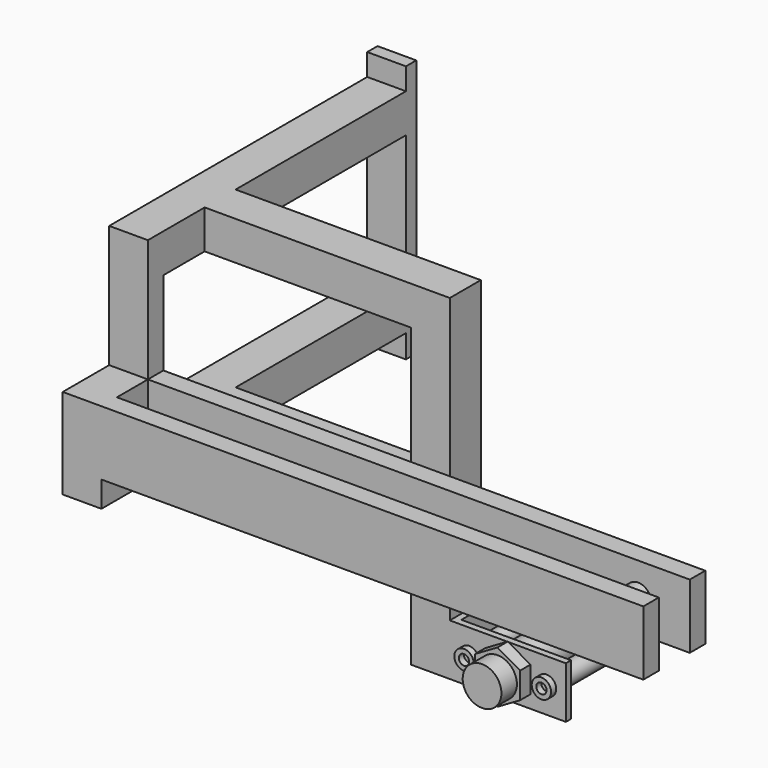
from build123d import *

# Parameters (mm, degrees)
F0_W      = 90
F0_H      = 40
F0_R      = 4
F1_DEPTH  = 5
F3_DEPTH  = 10
F4_R      = 15
F5_DEPTH  = 60
F6_R      = 7.5
F6_R_2    = 4
F7_DEPTH  = 80
F8_W      = 90
F8_H      = 40
F9_DEPTH  = 5
F11_DEPTH = 10
F12_R     = 15
F13_DEPTH = 15
F14_W     = 5
F14_H     = 40
F15_DEPTH = 70
F16_R     = 4
F17_DEPTH = 50
F18_W     = 30
F18_H     = 260
F19_DEPTH = 30
F20_W     = 30
F20_H     = 30
F21_DEPTH = 190
F22_W     = 30
F22_H     = 30
F23_DEPTH = 205
F24_DEPTH = 40
F25_W     = 30
F25_H     = 200
F26_DEPTH = 10
F27_W     = 30
F27_H     = 165
F28_DEPTH = 60
F29_W     = 15
F29_H     = 50
F30_DEPTH = 420
F31_W     = 45
F31_H     = 121.339908
F32_DEPTH = 40
F33_R     = 10
F34_DEPTH = 60


with BuildPart() as f1:
    # F0 (on Front) → F1 (new body)
    with BuildSketch(Plane.XZ):
        Rectangle(F0_W, F0_H)
        with Locations((-30, 0)):
            Circle(F0_R, mode=Mode.SUBTRACT)
        Circle(F0_R, mode=Mode.SUBTRACT)
        with Locations((30, 0)):
            Circle(F0_R, mode=Mode.SUBTRACT)
    extrude(amount=F1_DEPTH)

    # F2 (on face) → F3 (join)
    with BuildSketch(Plane.XZ.offset(5)):
        Polygon((17.5, -10.10363), (17.5, 10.10363), (0, 20.207259), (-17.5, 10.10363), (-17.5, -10.10363), (0, -20.207259), align=None)
    extrude(amount=F3_DEPTH)

    # F4 (on face) → F5 (join)
    with BuildSketch(Plane.XZ.offset(15)):
        Circle(F4_R)
    extrude(amount=F5_DEPTH)

    # F6 (on face) → F7 (join)
    with BuildSketch(Plane.XZ.offset(5)):
        with Locations((30, 0)):
            Circle(F6_R)
        with Locations((30, 0)):
            Circle(F6_R_2, mode=Mode.SUBTRACT)
        with Locations((-30, 0)):
            Circle(F6_R)
        with Locations((-30, 0)):
            Circle(F6_R_2, mode=Mode.SUBTRACT)
    extrude(amount=F7_DEPTH)

    # F8 (on face) → F9 (join)
    with BuildSketch(Plane.XZ.offset(75)):
        Rectangle(F8_W, F8_H)
    extrude(amount=F9_DEPTH)

    # F10 (on face) → F11 (join)
    with BuildSketch(Plane.XZ.offset(80)):
        Polygon((0.040823, -20.207218), (17.520376, -10.068255), (17.479553, 10.138963), (-0.040823, 20.207218), (-17.520376, 10.068255), (-17.479553, -10.138963), align=None)
    extrude(amount=F11_DEPTH)

    # F12 (on face) → F13 (join)
    with BuildSketch(Plane.XZ.offset(90)):
        Circle(F12_R)
    extrude(amount=F13_DEPTH)

    # F14 (on face) → F15 (join, through all)
    with BuildSketch(Plane.XZ.offset(5)):
        with Locations((-42.5, 0)):
            Rectangle(F14_W, F14_H)
    extrude(amount=F15_DEPTH)

    # F16 (on face) → F17 (cut)
    with BuildSketch(Plane(origin=(0, 0, 0), x_dir=(-1, 0, 0), z_dir=(0, 1, 0))):
        Circle(F16_R)
    extrude(amount=-F17_DEPTH, mode=Mode.SUBTRACT)

    # F18 (on face) → F19 (join)
    with BuildSketch(Plane(origin=(-45, 0, 0), x_dir=(0, -1, 0), z_dir=(-1, 0, 0))):
        with Locations((65, 110)):
            Rectangle(F18_W, F18_H)
    extrude(amount=F19_DEPTH)

    # F20 (on face) → F21 (join)
    with BuildSketch(Plane(origin=(-75, 0, 0), x_dir=(0, -1, 0), z_dir=(-1, 0, 0))):
        with Locations((65, 90)):
            Rectangle(F20_W, F20_H)
        with Locations((65, 225)):
            Rectangle(F20_W, F20_H)
    extrude(amount=F21_DEPTH)

    # F22 (on face) → F23 (join)
    with BuildSketch(Plane.XZ.offset(80)):
        with Locations((-250, 90)):
            Rectangle(F22_W, F22_H)
        with Locations((-250, 225)):
            Rectangle(F22_W, F22_H)
    extrude(amount=-F23_DEPTH)

    # F22 (on face) → F24 (join)
    with BuildSketch(Plane.XZ.offset(80)):
        with Locations((-250, 90)):
            Rectangle(F22_W, F22_H)
        with Locations((-250, 225)):
            Rectangle(F22_W, F22_H)
    extrude(amount=F24_DEPTH)

    # F25 (on face) → F26 (join)
    with BuildSketch(Plane(origin=(0, 125, 0), x_dir=(-1, 0, 0), z_dir=(0, 1, 0))):
        with Locations((250, 157)):
            Rectangle(F25_W, F25_H)
    extrude(amount=-F26_DEPTH)

    # F27 (on face) → F28 (join)
    with BuildSketch(Plane.XZ.offset(120)):
        with Locations((-250, 157.5)):
            Rectangle(F27_W, F27_H)
    extrude(amount=F28_DEPTH)

    # F29 (on face) → F30 (join)
    with BuildSketch(Plane.YZ.offset(-235)):
        with Locations((-172.5, 120)):
            Rectangle(F29_W, F29_H)
        with Locations((-127.5, 120)):
            Rectangle(F29_W, F29_H)
    extrude(amount=F30_DEPTH)

    # F31 (on face) → F32 (cut)
    with BuildSketch(Plane.YZ.offset(-235)):
        with Locations((-157.5, 205.669954)):
            Rectangle(F31_W, F31_H)
    extrude(amount=-F32_DEPTH, mode=Mode.SUBTRACT)

    # F33 (on face) → F34 (join)
    with BuildSketch(Plane.XZ.offset(180)):
        with Locations((145, 120)):
            Circle(F33_R)
    extrude(amount=-F34_DEPTH)


solid = f1.part
